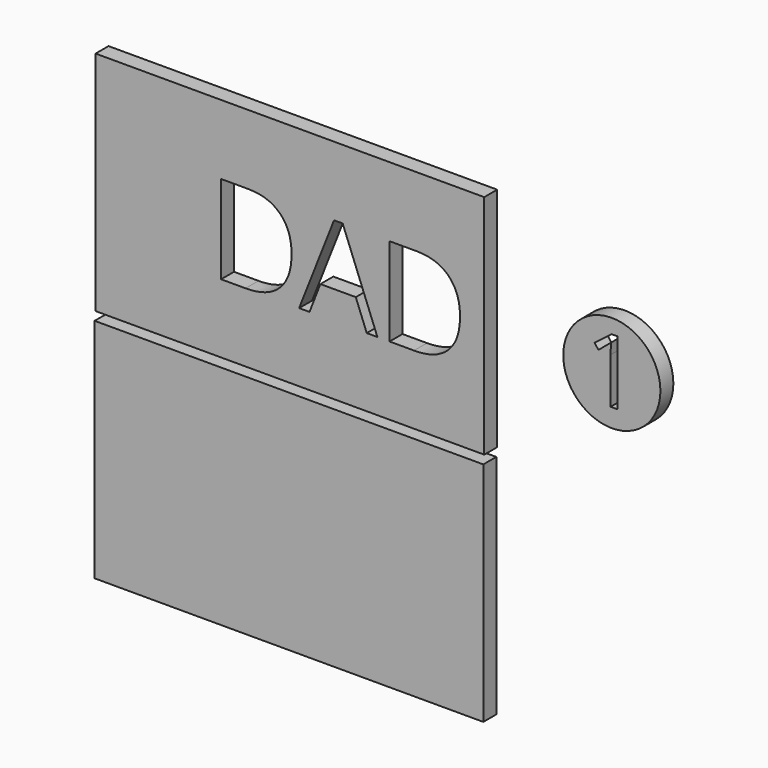
from build123d import *

# Parameters (mm, degrees)
F0_R     = 19.05
F1_DEPTH = 6.35
F2_DEPTH = 6.35
F3_DEPTH = 6.35


with BuildPart() as f1:
    # F0 (on Front) → F1 (new body)
    with BuildSketch(Plane.XZ):
        with Locations((100.1567976203, 19.7448887793)):
            Circle(F0_R)
        with BuildLine():
            Line((102.462814241, 33.1331300803), (102.462814241, 7.9481040387))
            Line((102.462814241, 7.9481040387), (99.6736649354, 7.9481040387))
            Line((99.6736649354, 7.9481040387), (99.6736649354, 25.8956734831))
            add(Edge.make_bspline(
                [(99.6736649354, 25.8956734831), (99.6736649354, 28.1391196637), (99.8114687549, 30.1345189692)],
                knots=[0, 0, 0, 1, 1, 1], degree=2))
            add(Edge.make_bspline(
                [(99.8114687549, 30.1345189692), (99.4531788243, 29.7707168859), (99.0039383729, 29.3765979623)],
                knots=[0, 0, 0, 1, 1, 1], degree=2))
            add(Edge.make_bspline(
                [(99.0039383729, 29.3765979623), (98.5546979215, 28.9824790387), (94.9056527827, 26.0169408442)],
                knots=[0, 0, 0, 1, 1, 1], degree=2))
            Line((94.9056527827, 26.0169408442), (93.3898107688, 27.9792672331))
            Line((93.3898107688, 27.9792672331), (100.0540034771, 33.1331300803))
            Line((100.0540034771, 33.1331300803), (102.462814241, 33.1331300803))
        make_face(mode=Mode.SUBTRACT)
    extrude(amount=F1_DEPTH)


with BuildPart() as f2:
    # F0 (on Front) → F2 (new body)
    with BuildSketch(Plane.XZ):
        Polygon((50.1307671558, 64.1948887793), (-7.0192328442, 64.1948887793), (-102.2692328442, 64.1948887793), (-102.2692328442, -24.7051112207), (-7.0192328442, -24.7051112207), (50.1307671558, -24.7051112207), align=None)
        with BuildLine():
            add(Edge.make_bspline(
                [(-29.8955270409, 32.4354154092), (-25.4203069902, 27.9601953585), (-25.4203069902, 19.9267774859)],
                knots=[0, 0, 0, 1, 1, 1], degree=2))
            add(Edge.make_bspline(
                [(-25.4203069902, 19.9267774859), (-25.4203069902, 11.3552721898), (-30.0736263994, 6.8194225702)],
                knots=[0, 0, 0, 1, 1, 1], degree=2))
            add(Edge.make_bspline(
                [(-30.0736263994, 6.8194225702), (-34.7269458086, 2.2835729506), (-43.4651824191, 2.2835729506)],
                knots=[0, 0, 0, 1, 1, 1], degree=2))
            Line((-43.4651824191, 2.2835729506), (-53.0598116895, 2.2835729506))
            Line((-53.0598116895, 2.2835729506), (-53.0598116895, 36.9106354599))
            Line((-53.0598116895, 36.9106354599), (-42.4496371408, 36.9106354599))
            add(Edge.make_bspline(
                [(-42.4496371408, 36.9106354599), (-34.3707470916, 36.9106354599), (-29.8955270409, 32.4354154092)],
                knots=[0, 0, 0, 1, 1, 1], degree=2))
        make_face(mode=Mode.SUBTRACT)
        Polygon((8.2366824176, 2.2835729506), (4.0683995592, 2.2835729506), (-0.2438785253, 13.295418393), (-14.1204710958, 13.295418393), (-18.3796983075, 2.2835729506), (-22.4570368126, 2.2835729506), (-8.7699116448, 37.054630686), (-5.3822344853, 37.054630686), align=None, mode=Mode.SUBTRACT)
        with BuildLine():
            add(Edge.make_bspline(
                [(36.1603882209, 32.4354154092), (40.6356082717, 27.9601953585), (40.6356082717, 19.9267774859)],
                knots=[0, 0, 0, 1, 1, 1], degree=2))
            add(Edge.make_bspline(
                [(40.6356082717, 19.9267774859), (40.6356082717, 11.3552721898), (35.9822888625, 6.8194225702)],
                knots=[0, 0, 0, 1, 1, 1], degree=2))
            add(Edge.make_bspline(
                [(35.9822888625, 6.8194225702), (31.3289694532, 2.2835729506), (22.5907328428, 2.2835729506)],
                knots=[0, 0, 0, 1, 1, 1], degree=2))
            Line((22.5907328428, 2.2835729506), (12.9961035723, 2.2835729506))
            Line((12.9961035723, 2.2835729506), (12.9961035723, 36.9106354599))
            Line((12.9961035723, 36.9106354599), (23.606278121, 36.9106354599))
            add(Edge.make_bspline(
                [(23.606278121, 36.9106354599), (31.6851681702, 36.9106354599), (36.1603882209, 32.4354154092)],
                knots=[0, 0, 0, 1, 1, 1], degree=2))
        make_face(mode=Mode.SUBTRACT)
    extrude(amount=F2_DEPTH)


with BuildPart() as f3:
    # F0 (on Front) → F3 (new body)
    with BuildSketch(Plane.XZ):
        Polygon((49.7624414408, -28.1795670637), (-7.3875585592, -28.1795670637), (-102.6375585592, -28.1795670637), (-102.6375585592, -117.0795670637), (49.7624414408, -117.0795670637), align=None)
    extrude(amount=F3_DEPTH)


solid = Compound([f1.part, f2.part, f3.part])
